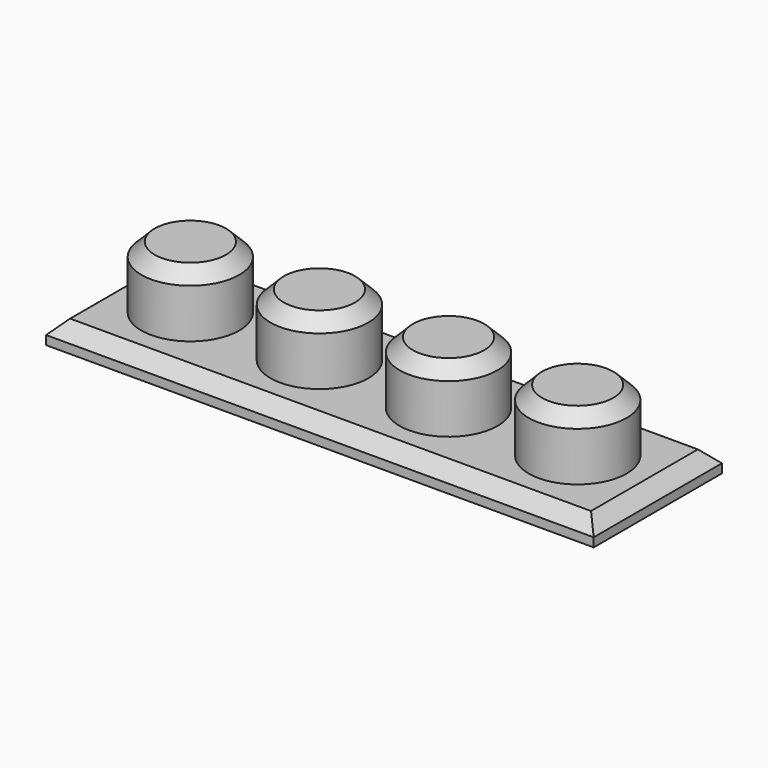
from build123d import *

# Parameters (mm, degrees)
F0_W     = 123
F0_H     = 36
F0_R     = 11
F1_DEPTH = 5
F2_DEPTH = 14
F3_SIZE  = 3
F4_ANGLE = 180


with BuildPart() as f1:
    # F0 (on Top) → F1 (new body)
    with BuildSketch(Plane.XY):
        with Locations((-0.073285, 7.507721)):
            Rectangle(F0_W, F0_H)
        with Locations((-43.573285, 7.507721)):
            Circle(F0_R, mode=Mode.SUBTRACT)
        with Locations((-14.573285, 7.507721)):
            Circle(F0_R, mode=Mode.SUBTRACT)
        with Locations((14.426715, 7.507721)):
            Circle(F0_R, mode=Mode.SUBTRACT)
        with Locations((43.426715, 7.507721)):
            Circle(F0_R, mode=Mode.SUBTRACT)
        with Locations((-43.573285, 7.507721)):
            Circle(F0_R)
        with Locations((-14.573285, 7.507721)):
            Circle(F0_R)
        with Locations((14.426715, 7.507721)):
            Circle(F0_R)
        with Locations((43.426715, 7.507721)):
            Circle(F0_R)
    extrude(amount=F1_DEPTH)

    # F0 (on Top) → F2 (join)
    with BuildSketch(Plane.XY):
        with Locations((-43.573285, 7.507721)):
            Circle(F0_R)
        with Locations((-14.573285, 7.507721)):
            Circle(F0_R)
        with Locations((14.426715, 7.507721)):
            Circle(F0_R)
        with Locations((43.426715, 7.507721)):
            Circle(F0_R)
    extrude(amount=-F2_DEPTH)

    # F3
    f3_edges = [f1.edges().sort_by_distance(p)[0] for p in [
        (-0.073285, 25.507721, 0),
        (-61.573285, 7.507721, 0),
        (61.426715, 7.507721, 0),
        (-0.073285, -10.492279, 0),
        (32.426715, 7.507721, -14),
        (3.426715, 7.507721, -14),
        (-25.573285, 7.507721, -14),
        (-54.573285, 7.507721, -14),
    ]]
    chamfer(f3_edges, length=F3_SIZE)


with BuildPart() as f1_1:
    # F4: moved
    add(f1.part.rotate(Axis((-0.073285, 7.507721, 0), (1, 0, 0)), F4_ANGLE))


solid = f1_1.part
